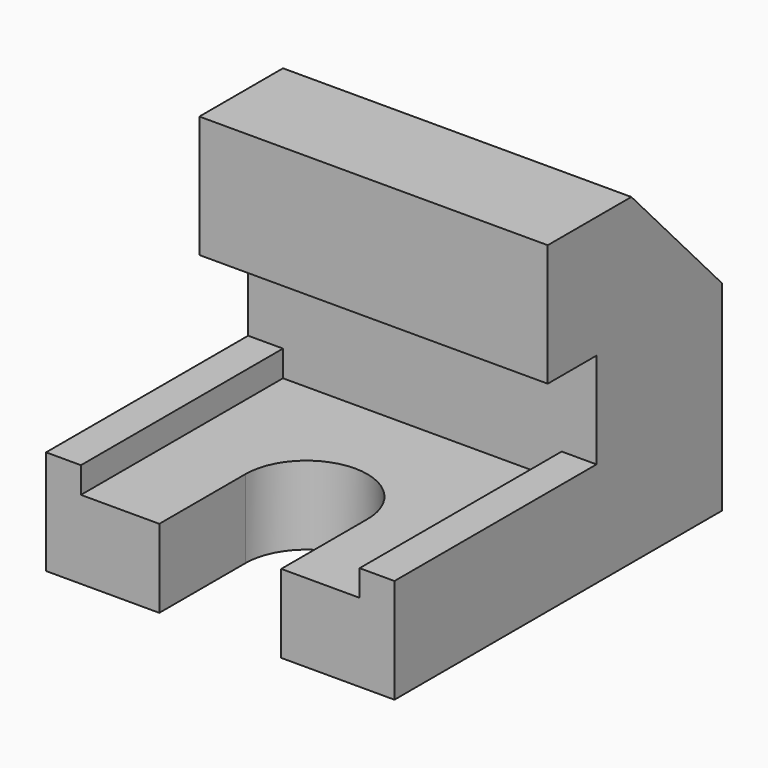
from build123d import *

# Parameters (mm, degrees)
PAD_DEPTH         = 20
POCKET_DEPTH      = 6.001
POCKET_DEPTH_BACK = -31.001


with BuildPart() as part:
    # AdditivePipe: sweep along a path in Sketch
    with BuildLine(Plane.XY) as additivepipe_path:
        Line((0, 0), (0, 47))
    # Sketch001 → AdditivePipe (sweep)
    with BuildSketch(Plane.XZ):
        Polygon((-20, 6), (-20, -6), (-16, -6), (-9, -6), (9, -6), (16, -6), (20, -6), (20, 6), (16, 6), (16, 3), (9, 3), (-9, 3), (-16, 3), (-16, 6), align=None)
    sweep(path=additivepipe_path.line)

    # Sketch002 → Pad (new body, symmetric)
    with BuildSketch(Plane.YZ):
        Polygon((47, 6), (47, 17), (34, 31), (22, 31), (22, 17), (29, 17), (29, 3), (47, 3), align=None)
    extrude(amount=PAD_DEPTH, both=True)

    # Sketch003 → Pocket (cut, two sides)
    with BuildSketch(Plane.XY) as pocket_sk:
        with BuildLine():
            ThreePointArc((7, 12.362), (0, 19.362), (-7, 12.362))
            Line((-7, 12.362), (-7, 0))
            Line((-7, 0), (7, 0))
            Line((7, 12.362), (7, 0))
        make_face()
    extrude(amount=-POCKET_DEPTH, mode=Mode.SUBTRACT)
    extrude(pocket_sk.sketch, amount=-POCKET_DEPTH_BACK, mode=Mode.SUBTRACT)


solid = part.part
